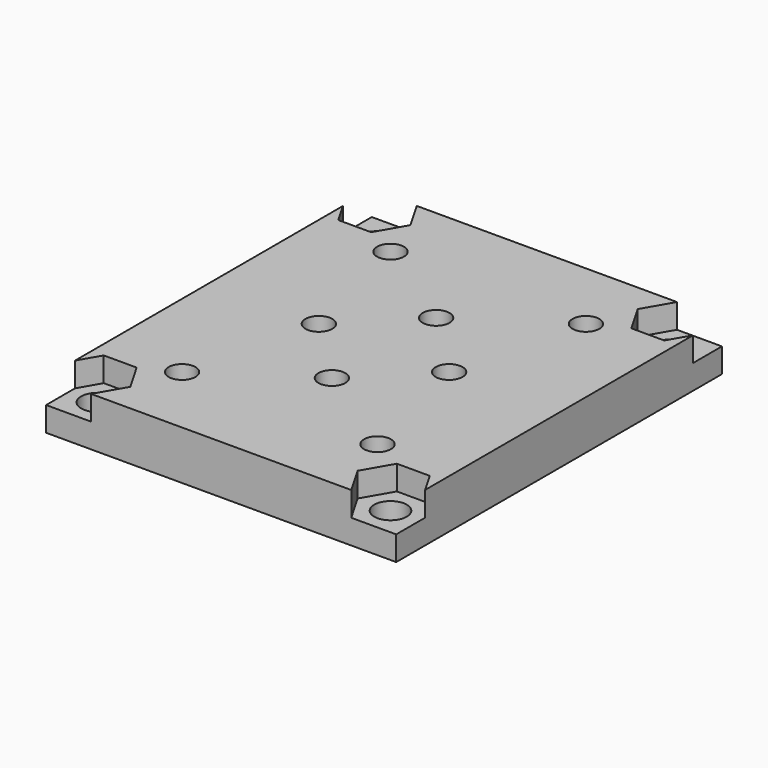
from build123d import *

# Parameters (mm, degrees)
F0_W     = 43
F0_H     = 50
F1_DEPTH = 6
F3_D     = 3.3
F4_DEPTH = 3
F5_D     = 4


with BuildPart() as f1:
    # F0 (on Top) → F1 (new body)
    with BuildSketch(Plane.XY):
        Rectangle(F0_W, F0_H)
    extrude(amount=F1_DEPTH)

    # F3 (through all)
    with Locations(Plane.XY.offset(6)):
        with Locations((-8, 0), (8, 0), (0, 8), (0, -8), (-12, 16), (-12, -16), (12, -16), (12, 16)):
            Hole(F3_D / 2)

    # F2 (on face) → F4 (cut)
    with BuildSketch(Plane.XY.offset(6)):
        Polygon((-20.0207259422, -25), (-15.9792740578, -25), (-13.9585481157, -21.5), (-15.9792740578, -18), (-20.0207259422, -18), (-21.5, -20.5621778265), (-21.5, -22.4378221735), align=None)
        Polygon((-21.5, -25), (-20.0207259422, -25), (-21.5, -22.4378221735), align=None)
        Polygon((13.9585481157, -21.5), (15.9792740578, -25), (20.0207259422, -25), (21.5, -22.4378221735), (21.5, -20.5621778265), (20.0207259422, -18), (15.9792740578, -18), align=None)
        Polygon((21.5, -22.4378221735), (20.0207259422, -25), (21.5, -25), align=None)
        Polygon((20.0207259422, 18), (21.5, 20.5621778265), (21.5, 22.4378221735), (20.0207259422, 25), (15.9792740578, 25), (13.9585481157, 21.5), (15.9792740578, 18), align=None)
        Polygon((20.0207259422, 25), (21.5, 22.4378221735), (21.5, 25), align=None)
        Polygon((-21.5, 22.4378221735), (-21.5, 20.5621778265), (-20.0207259422, 18), (-15.9792740578, 18), (-13.9585481157, 21.5), (-15.9792740578, 25), (-20.0207259422, 25), align=None)
        Polygon((-21.5, 25), (-21.5, 22.4378221735), (-20.0207259422, 25), align=None)
    extrude(amount=-F4_DEPTH, mode=Mode.SUBTRACT)

    # F5 (through all)
    with Locations(Plane.XY.offset(6)):
        with Locations((-18, -21.5), (18, -21.5), (18, 21.5), (-18, 21.5)):
            Hole(F5_D / 2)


solid = f1.part
